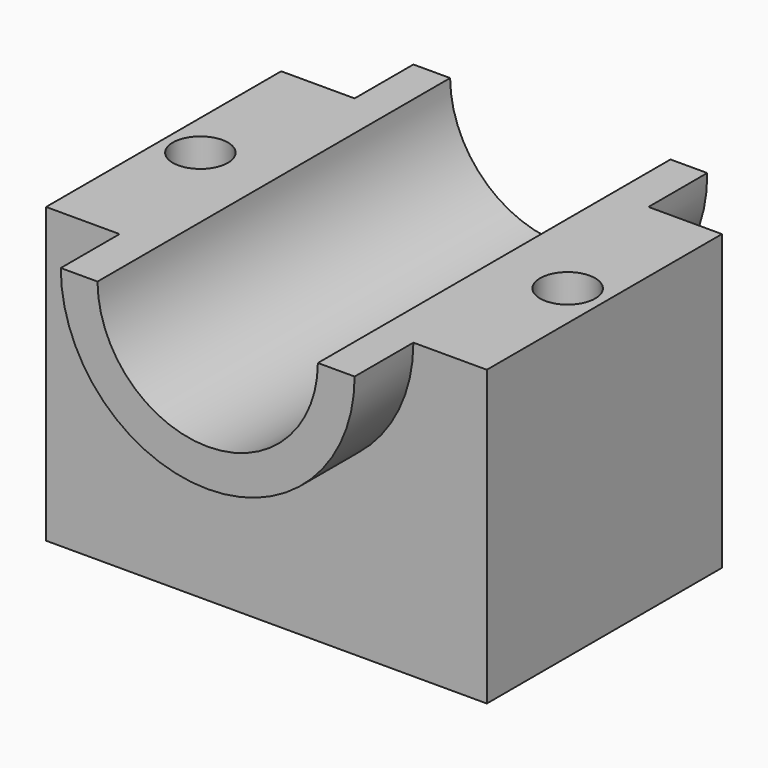
from build123d import *

# Parameters (mm, degrees)
F0_W      = 152.4
F0_H      = 101.6
F1_DEPTH  = 101.6
F3_DEPTH  = 25.4
F4_DEPTH  = 128.27
F6_DEPTH  = 25.4
F7_R      = 9.525
F8_DEPTH  = 76.2
F9_R      = 9.525
F10_DEPTH = 76.2


with BuildPart() as f1:
    # F0 (on Top) → F1 (new body)
    with BuildSketch(Plane.XY):
        with Locations((2.3605413735, 24.3682915387)):
            Rectangle(F0_W, F0_H)
    extrude(amount=F1_DEPTH)

    # F2 (on face) → F3 (join)
    with BuildSketch(Plane.XZ.offset(26.4317084613)):
        with BuildLine():
            Line((-35.7394586265, 101.6), (-48.4394586265, 101.6))
            ThreePointArc((-48.4394586265, 101.6), (2.3605413735, 50.8), (53.1605413735, 101.6))
            Line((53.1605413735, 101.6), (40.4605413735, 101.6))
            ThreePointArc((40.4605413735, 101.6), (2.3605413735, 63.7227148693), (-35.7394586265, 101.6))
        make_face()
    extrude(amount=F3_DEPTH)

    # F4 (cut): a face of the model
    f4_faces = [f1.faces().sort_by_distance(p)[0] for p in [
        (2.3605413735, -26.4317084613, 85.532177983),
    ]]
    extrude(f4_faces, amount=-F4_DEPTH, mode=Mode.SUBTRACT)

    # F5 (on face) → F6 (join)
    with BuildSketch(Plane(origin=(0, 75.1682915387, 0), x_dir=(-1, 0, 0), z_dir=(0, 1, 0))):
        with BuildLine():
            Line((-40.4605413735, 101.6), (-53.1605413735, 101.6))
            ThreePointArc((-53.1605413735, 101.6), (-2.3605413735, 50.2605806131), (48.4394586265, 101.6))
            Line((48.4394586265, 101.6), (35.7394586265, 101.6))
            ThreePointArc((35.7394586265, 101.6), (-2.3605413735, 63.7227148693), (-40.4605413735, 101.6))
        make_face()
    extrude(amount=F6_DEPTH)

    # F7 (on face) → F8 (cut)
    with BuildSketch(Plane.XY.offset(101.6)):
        with Locations((-61.1394586265, 24.3682915387)):
            Circle(F7_R)
    extrude(amount=-F8_DEPTH, mode=Mode.SUBTRACT)

    # F9 (on face) → F10 (cut)
    with BuildSketch(Plane.XY.offset(101.6)):
        with Locations((65.8605413735, 24.3682915387)):
            Circle(F9_R)
    extrude(amount=-F10_DEPTH, mode=Mode.SUBTRACT)


solid = f1.part
